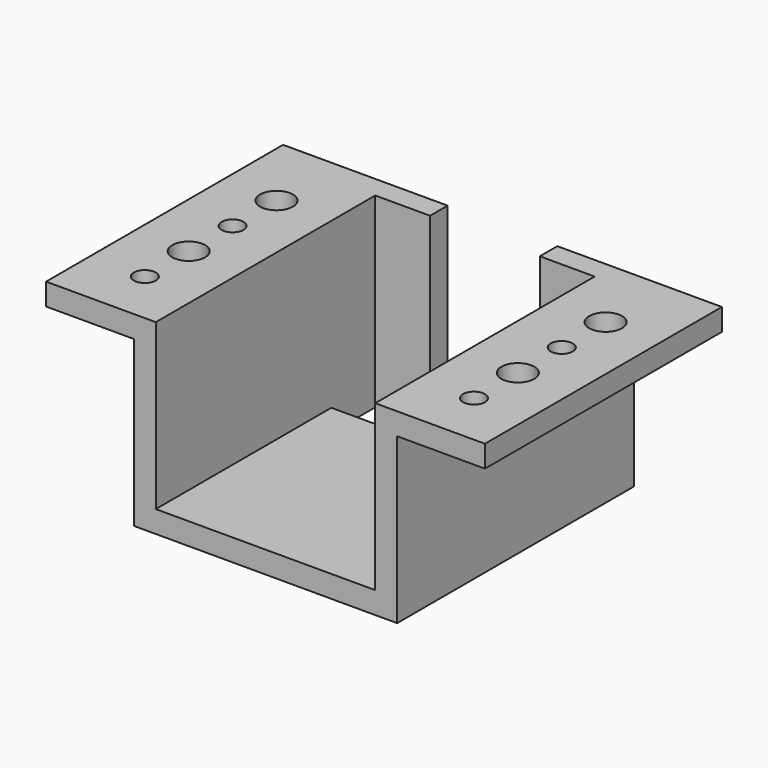
from build123d import *

# Parameters (mm, degrees)
F0_W      = 24
F0_H      = 2
F0_W_2    = 8
F0_H_2    = 15
F1_DEPTH  = 27
F2_W      = 20
F2_H      = 5
F3_DEPTH  = 17.001
F4_W      = 10
F4_H      = 17
F5_DEPTH  = 2
F6_W      = 20
F6_H      = 13
F7_DEPTH  = 25
F8_W      = 20
F8_H      = 20
F9_DEPTH  = 2
F10_R     = 1
F10_R_2   = 1.5
F11_DEPTH = 17.001
F12_R     = 1
F12_R_2   = 1.5
F13_DEPTH = 17.001


with BuildPart() as f1:
    # F0 (on Front) → F1 (new body)
    with BuildSketch(Plane.XZ):
        with Locations((0, -1)):
            Rectangle(F0_W, F0_H)
        with Locations((16, -1)):
            Rectangle(F0_W_2, F0_H)
        with Locations((-16, -1)):
            Rectangle(F0_W_2, F0_H)
        with Locations((0, -9.5)):
            Rectangle(F0_W, F0_H_2)
    extrude(amount=F1_DEPTH)

    # F2 (on face) → F3 (cut, through all)
    with BuildSketch(Plane(origin=(0, 0, -17), x_dir=(1, 0, 0), z_dir=(0, 0, -1))):
        with Locations((0, 4.5)):
            Rectangle(F2_W, F2_H)
    extrude(amount=-F3_DEPTH, mode=Mode.SUBTRACT)

    # F4 (on face) → F5 (cut, through all)
    with BuildSketch(Plane(origin=(0, 0, 0), x_dir=(-1, 0, 0), z_dir=(0, 1, 0))):
        with Locations((0, -8.5)):
            Rectangle(F4_W, F4_H)
    extrude(amount=-F5_DEPTH, mode=Mode.SUBTRACT)

    # F6 (on face) → F7 (cut, through all)
    with BuildSketch(Plane.XZ.offset(27)):
        with Locations((0, -8.5)):
            Rectangle(F6_W, F6_H)
    extrude(amount=-F7_DEPTH, mode=Mode.SUBTRACT)

    # F8 (on face) → F9 (cut, through all)
    with BuildSketch(Plane.XY):
        with Locations((0, -17)):
            Rectangle(F8_W, F8_H)
        with Locations((0, -17)):
            Rectangle(F8_W, F8_H)
    extrude(amount=-F9_DEPTH, mode=Mode.SUBTRACT)

    # F10 (on face) → F11 (cut, through all)
    with BuildSketch(Plane.XY):
        with Locations((15, -22)):
            Circle(F10_R)
        with Locations((15, -17)):
            Circle(F10_R_2)
        with Locations((15, -12)):
            Circle(F10_R)
        with Locations((15, -7)):
            Circle(F10_R_2)
    extrude(amount=-F11_DEPTH, mode=Mode.SUBTRACT)

    # F12 (on face) → F13 (cut, through all)
    with BuildSketch(Plane.XY):
        with Locations((-15, -22)):
            Circle(F12_R)
        with Locations((-15, -17)):
            Circle(F12_R_2)
        with Locations((-15, -12)):
            Circle(F12_R)
        with Locations((-15, -7)):
            Circle(F12_R_2)
    extrude(amount=-F13_DEPTH, mode=Mode.SUBTRACT)


solid = f1.part
